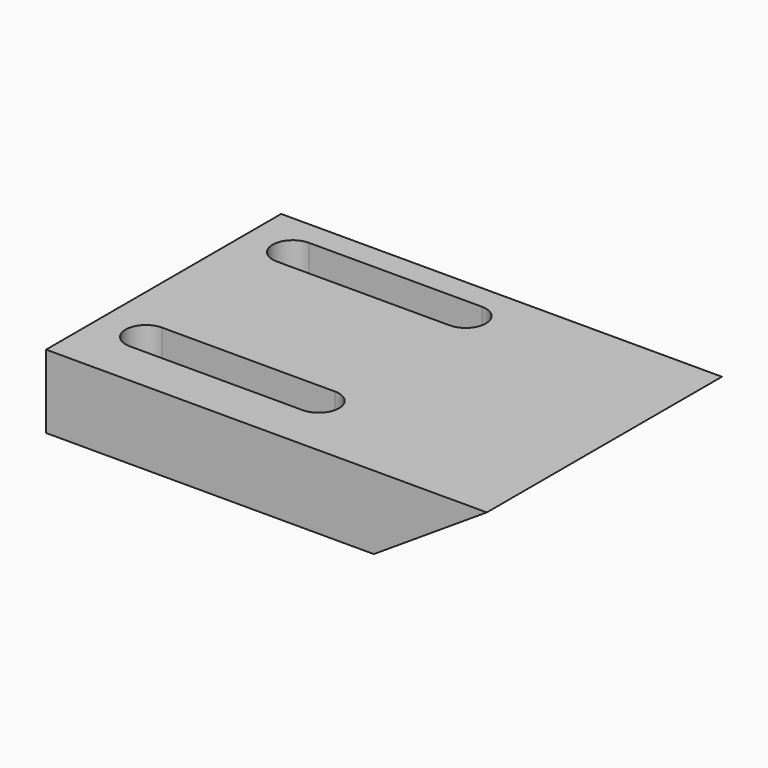
from build123d import *

# Parameters (mm, degrees)
F0_W     = 60
F0_H     = 40
F1_DEPTH = 10
F4_DEPTH = 40
F5_DEPTH = 25
F7_DEPTH = 40


with BuildPart() as f1:
    # F0 (on Top) → F1 (new body)
    with BuildSketch(Plane.XY):
        Rectangle(F0_W, F0_H)
    extrude(amount=F1_DEPTH)

    # F3 (on face) → F4 (join)
    with BuildSketch(Plane.XZ.offset(20)):
        Polygon((0, 0), (14.609862, 10), (-30, 10), (-30, 0), align=None)
    extrude(amount=-F4_DEPTH)

    # F2 (on face) → F5 (cut)
    with BuildSketch(Plane.XY.offset(10)):
        with BuildLine():
            ThreePointArc((0, 11.150862), (2.75, 13.900862), (0, 16.650862))
            Line((0, 16.650862), (-23.533953, 16.650862))
            ThreePointArc((-23.533953, 16.650862), (-26.283953, 13.900862), (-23.533953, 11.150862))
            Line((-23.533953, 11.150862), (0, 11.150862))
        make_face()
        with BuildLine():
            ThreePointArc((0, -13.849138), (2.75, -11.099138), (0, -8.349138))
            Line((0, -8.349138), (-23.533953, -8.349138))
            ThreePointArc((-23.533953, -8.349138), (-26.283953, -11.099138), (-23.533953, -13.849138))
            Line((-23.533953, -13.849138), (0, -13.849138))
        make_face()
    extrude(amount=-F5_DEPTH, mode=Mode.SUBTRACT)

    # F6 (on face) → F7 (cut)
    with BuildSketch(Plane.XZ.offset(20)):
        Polygon((30, 0), (30, 10), (14.609862, 0), align=None)
    extrude(amount=-F7_DEPTH, mode=Mode.SUBTRACT)


solid = f1.part
